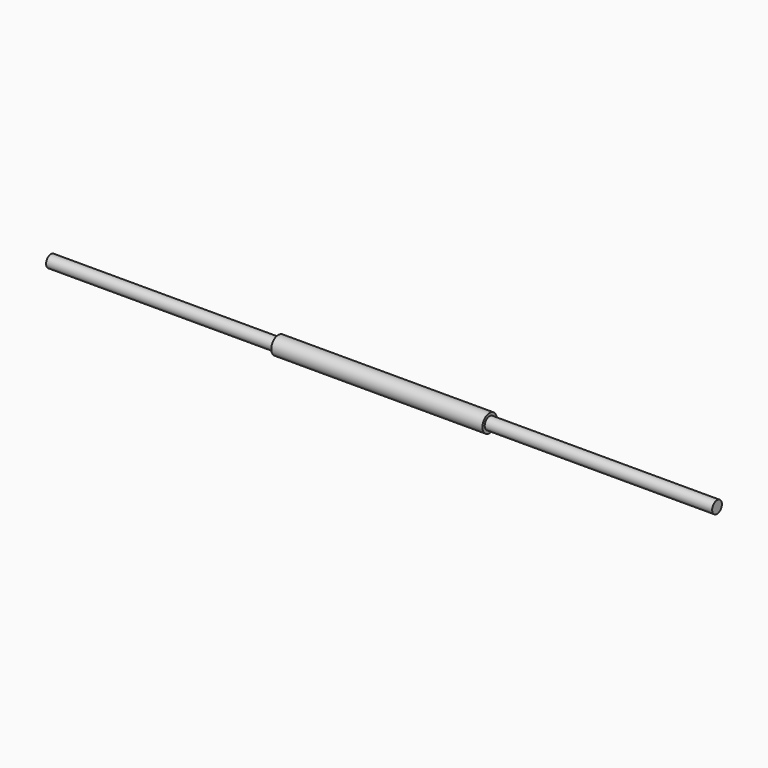
from build123d import *


with BuildPart() as f1:
    # F0 (on Front) → F1 (revolve)
    with BuildSketch(Plane.XZ):
        Polygon((-74.720278, 14.313716), (-252.520278, 14.313716), (-252.520278, 9.551216), (268.179722, 9.551216), (268.179722, 14.313716), (90.379722, 14.313716), align=None)
        Polygon((-74.720278, 16.536216), (-74.720278, 14.313716), (90.379722, 14.313716), (90.379722, 16.536216), (7.829722, 16.536216), align=None)
    revolve(axis=Axis((7.829722, 0, 9.551216), (1, 0, 0)))


solid = f1.part
